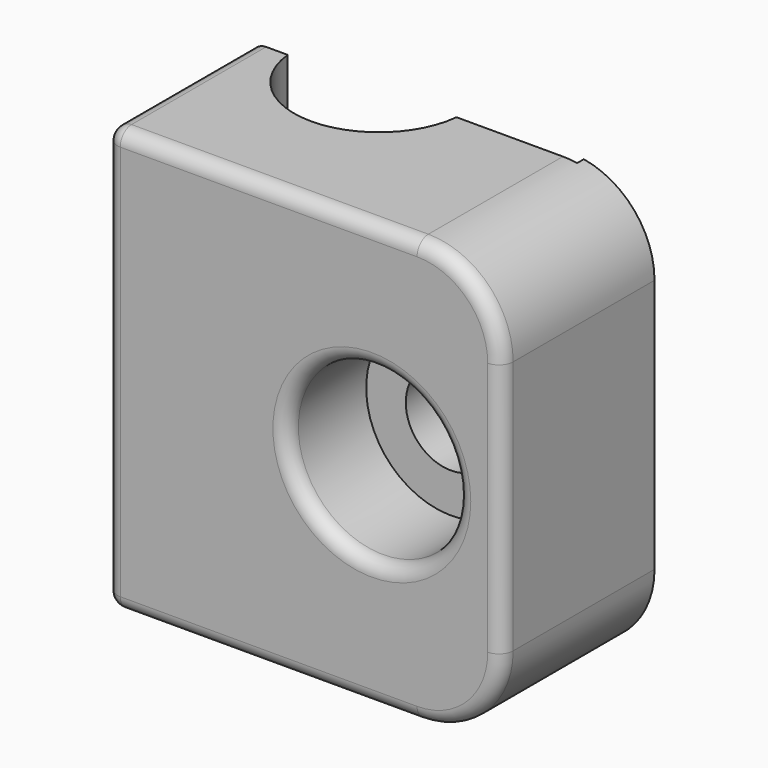
from build123d import *

# Parameters (mm, degrees)
F1_DEPTH = 30
F2_R     = 6
F2_R_2   = 3.2
F3_DEPTH = 7
F4_DEPTH = 25
F5_R     = 6
F6_R     = 1


with BuildPart() as f1:
    # F0 (on Top) → F1 (new body)
    with BuildSketch(Plane.XY):
        with BuildLine():
            Line((14, 0), (9, 0))
            Line((9, 0), (9, -0.6))
            Line((9, -0.6), (0.4699246226, -0.6))
            ThreePointArc((0.4699246226, -0.6), (-5.5, -6), (-11.4699246226, -0.6))
            Line((-11.4699246226, -0.6), (-14, -0.6))
            Line((-14, -0.6), (-14, -13.5))
            Line((-14, -13.5), (14, -13.5))
            Line((14, -13.5), (14, 0))
        make_face()
    extrude(amount=F1_DEPTH)

    # F2 (on face) → F3 (cut)
    with BuildSketch(Plane.XZ.offset(13.5)):
        with Locations((4.8, 15)):
            Circle(F2_R)
        with Locations((4.8, 15)):
            Circle(F2_R_2, mode=Mode.SUBTRACT)
    extrude(amount=-F3_DEPTH, mode=Mode.SUBTRACT)

    # F4 (cut): a face of the model
    f4_faces = [f1.faces().sort_by_distance(p)[0] for p in [
        (4.8, -13.5, 15),
    ]]
    extrude(f4_faces, amount=-F4_DEPTH, mode=Mode.SUBTRACT)

    # F5
    f5_edges = [f1.edges().sort_by_distance(p)[0] for p in [
        (14, -6.75, 0),
        (14, -6.75, 30),
    ]]
    fillet(f5_edges, radius=F5_R)

    # F6
    f6_edges = [f1.edges().sort_by_distance(p)[0] for p in [
        (-3, -13.5, 30),
        (-14, -13.5, 15),
        (-14, -7.05, 30),
        (-14, -7.05, 0),
        (-1.2, -13.5, 15),
    ]]
    fillet(f6_edges, radius=F6_R)


solid = f1.part
